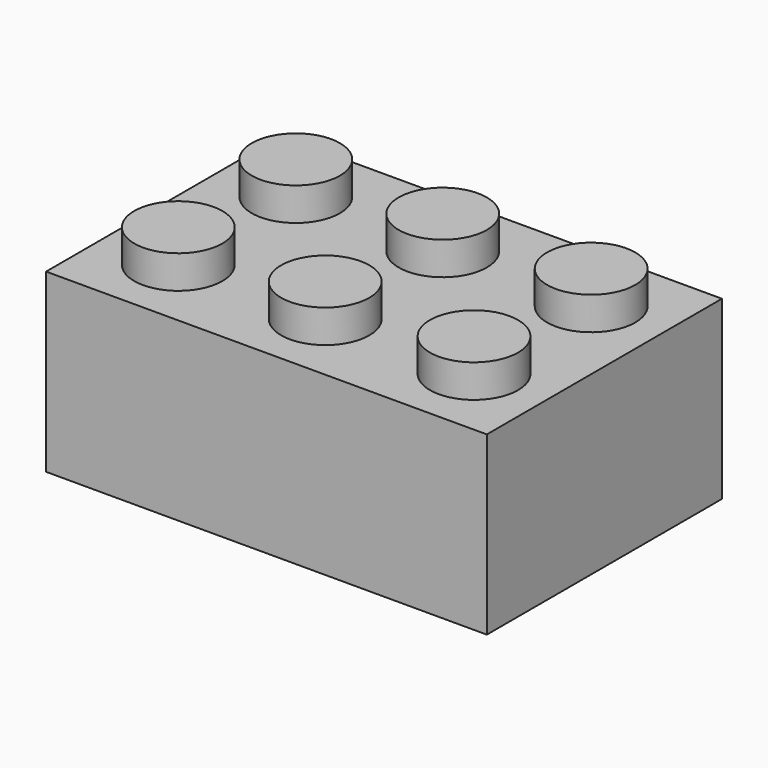
from build123d import *

# Parameters (mm, degrees)
F0_W     = 24
F0_H     = 16
F1_DEPTH = 9.6
F2_R     = 2.4
F3_DEPTH = 1.8


with BuildPart() as f1:
    # F0 (on Top) → F1 (new body)
    with BuildSketch(Plane.XY):
        with Locations((-12, 8)):
            Rectangle(F0_W, F0_H)
        with Locations((-12, 8)):
            Rectangle(F0_W, F0_H)
    extrude(amount=F1_DEPTH)

    # F2 (on face) → F3 (join)
    with BuildSketch(Plane.XY.offset(9.6)):
        with Locations((-20, 12)):
            Circle(F2_R)
        with Locations((-12, 12)):
            Circle(F2_R)
        with Locations((-3.908702, 11.987854)):
            Circle(F2_R)
        with Locations((-3.908702, 4.012146)):
            Circle(F2_R)
        with Locations((-12, 4)):
            Circle(F2_R)
        with Locations((-20, 4)):
            Circle(F2_R)
    extrude(amount=F3_DEPTH)


solid = f1.part
